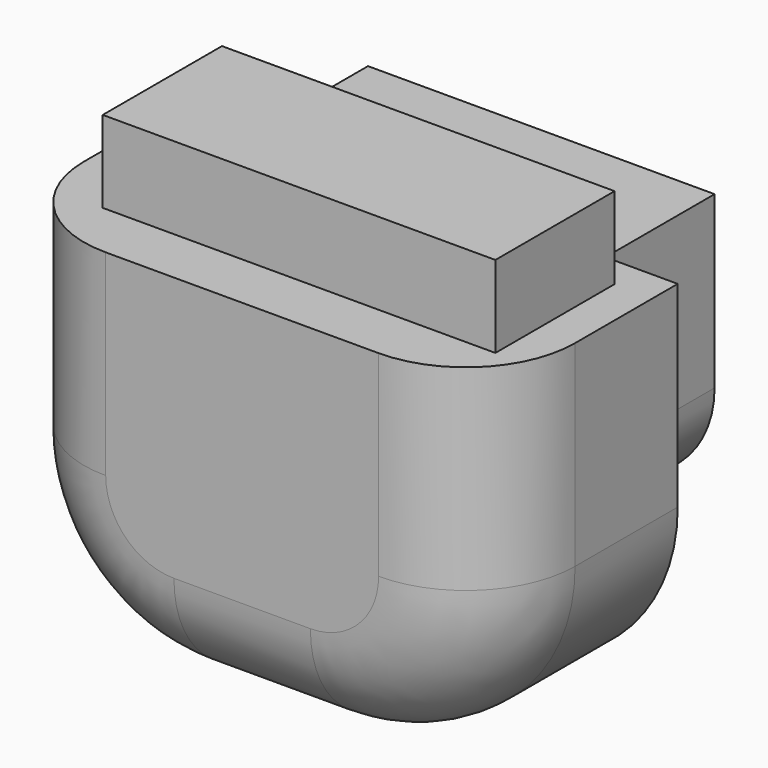
from build123d import *

# Parameters (mm, degrees)
F0_W      = 36
F0_H      = 17.4
F1_DEPTH  = 27.4
F2_W      = 25.4
F2_H      = 10
F3_DEPTH  = 20
F4_R      = 7.5
F5_R      = 13
F6_W      = 28.7746842951
F6_H      = 10.9196235426
F7_DEPTH  = 6
F8_R      = 8
F9_W      = 1.5
F9_H      = 10
F10_DEPTH = 1.25


with BuildPart() as f1:
    # F0 (on Top) → F1 (new body)
    with BuildSketch(Plane.XY):
        with Locations((0, 8.7)):
            Rectangle(F0_W, F0_H)
    extrude(amount=F1_DEPTH)

    # F5
    f5_edges = [f1.edges().sort_by_distance(p)[0] for p in [
        (18, 8.7, 0),
        (-18, 8.7, 0),
    ]]
    fillet(f5_edges, radius=F5_R)

    # F6 (on face) → F7 (join)
    with BuildSketch(Plane.XY.offset(27.4)):
        with Locations((0.811596401, 9.6576230135)):
            Rectangle(F6_W, F6_H)
    extrude(amount=F7_DEPTH)

    # F8
    f8_edges = [f1.edges().sort_by_distance(p)[0] for p in [
        (-18, 0, 20.2),
        (-14.192388, 0, 3.807612),
    ]]
    fillet(f8_edges, radius=F8_R)


with BuildPart() as f3:
    # F2 (on face) → F3 (new body)
    with BuildSketch(Plane.XY.offset(27.4)):
        with Locations((0, 22.4)):
            Rectangle(F2_W, F2_H)
    extrude(amount=-F3_DEPTH)

    # F4
    f4_edges = [f3.edges().sort_by_distance(p)[0] for p in [
        (-12.7, 22.4, 7.4),
        (12.7, 22.4, 7.4),
    ]]
    fillet(f4_edges, radius=F4_R)


with BuildPart() as f10:
    # F9 (on face) → F10 (new body)
    with BuildSketch(Plane(origin=(0, 0, 7.4), x_dir=(1, 0, 0), z_dir=(0, 0, -1))):
        with Locations((4.25, -22.4)):
            Rectangle(F9_W, F9_H)
    extrude(amount=F10_DEPTH)


with BuildPart() as f11_1:
    # F11: instance of F10
    add(f10.part.mirror(Plane.YZ))


solid = Compound([f1.part, f3.part, f10.part, f11_1.part])
